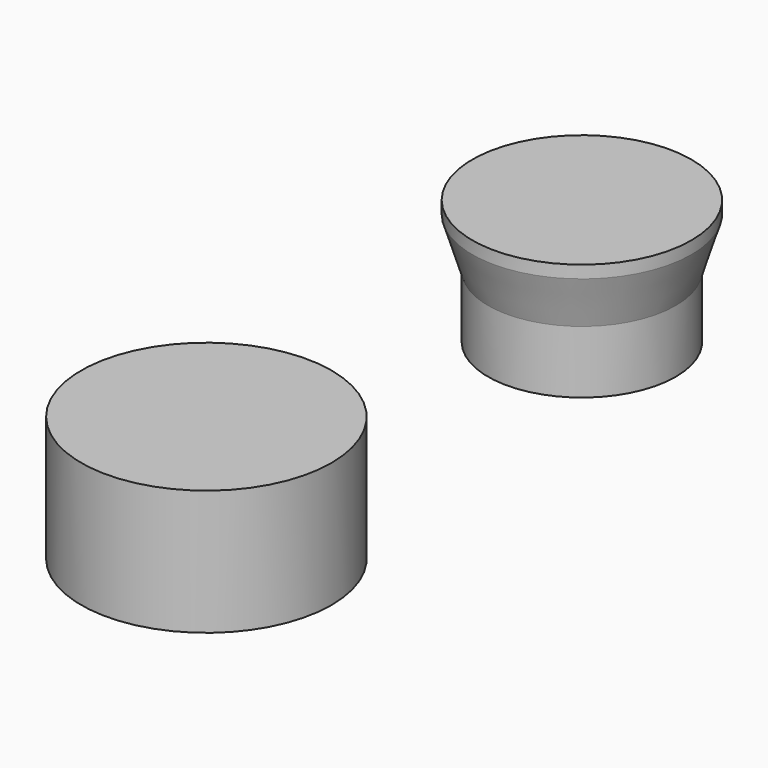
from build123d import *

# Parameters (mm, degrees)
F0_R      = 25.4
F1_DEPTH  = 25.4
F3_R      = 19.05
F4_DEPTH  = 12.7
F6_R      = 22.225
F7_DEPTH  = 2.54
F4_FACE_R = 19.05
F7_FACE_R = 22.225


with BuildPart() as f1:
    # F0 (on Top) → F1 (new body)
    with BuildSketch(Plane.XY):
        Circle(F0_R)
    extrude(amount=F1_DEPTH)


with BuildPart() as f4:
    # F3 (on offset) → F4 (new body)
    with BuildSketch(Plane.XY.offset(76.2)):
        with Locations((76.2, 0)):
            Circle(F3_R)
    extrude(amount=-F4_DEPTH)



with BuildPart() as f7:
    # F6 (on offset) → F7 (new body)
    with BuildSketch(Plane.XY.offset(88.9)):
        with Locations((76.2, 0)):
            Circle(F6_R)
    extrude(amount=-F7_DEPTH)


with BuildPart() as f4_1:
    add(f4.part)

    add(f7.part)  # F8 merges F7
    # F4_face (on face) → F8 section 0
    with BuildSketch(Plane(origin=(76.2, 0, 76.2), x_dir=(1, 0, 0), z_dir=(0, 0, 1))):
        Circle(F4_FACE_R)
    # F7_face (on face) → F8 section 1
    with BuildSketch(Plane(origin=(76.2, 0, 86.36), x_dir=(1, 0, 0), z_dir=(0, 0, -1))):
        Circle(F7_FACE_R)
    loft()


solid = Compound([f1.part, f4_1.part])
